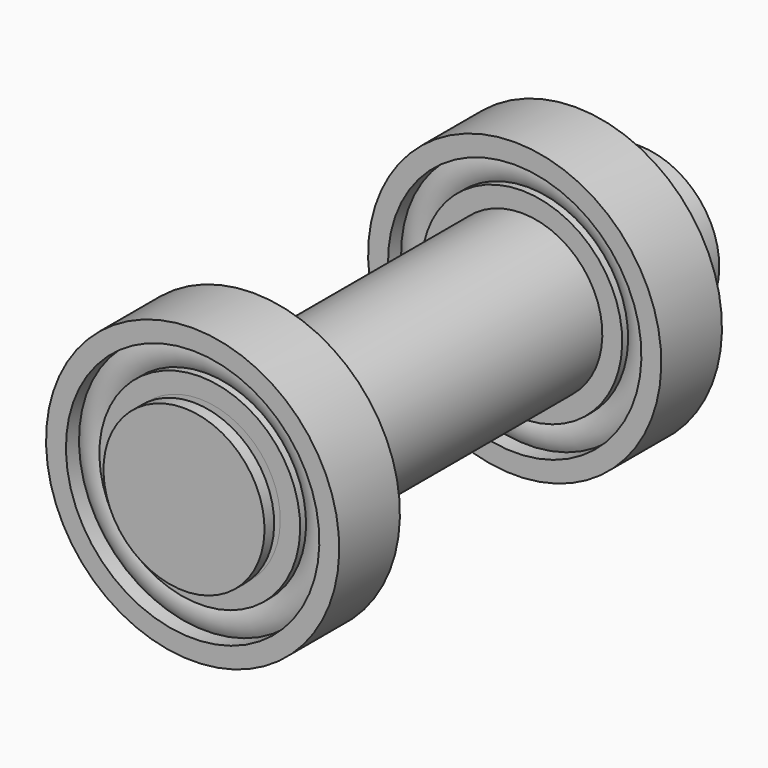
from build123d import *


with BuildPart() as f1:
    # F0 (on Right) → F1 (revolve)
    with BuildSketch(Plane.YZ):
        with BuildLine():
            Line((-63.255086535, 24.9401769811), (-65.0876164436, 24.9401769811))
            Line((-65.0876164436, 24.9401769811), (-65.0876164436, 20))
            Line((-65.0876164436, 20), (-50.6773889065, 20))
            Line((-50.6773889065, 20), (-50.6773889065, 24.9401769811))
            Line((-50.6773889065, 24.9401769811), (-52.5099188151, 24.9401769811))
            ThreePointArc((-52.5099188151, 24.9401769811), (-51.593845137, 28.2085949928), (-52.5099188151, 31.4770130044))
            Line((-52.5099188151, 31.4770130044), (-48.4607610852, 31.4770130044))
            Line((-48.4607610852, 31.4770130044), (-48.4607610852, 36.4171899855))
            Line((-48.4607610852, 36.4171899855), (-67.304244265, 36.4171899855))
            Line((-67.304244265, 36.4171899855), (-67.304244265, 31.4770130044))
            Line((-67.304244265, 31.4770130044), (-63.255086535, 31.4770130044))
            ThreePointArc((-63.255086535, 31.4770130044), (-64.1711602131, 28.2085949928), (-63.255086535, 24.9401769811))
        make_face()
    revolve(axis=Axis((0, -107.8825026751, 0), (0, -1, 0)))


with BuildPart() as f2_1:
    # F2: copy of F1
    add(f1.part.moved(Location((0, -100, 0))))


with BuildPart() as f4:
    # F3 (on Right) → F4 (revolve)
    with BuildSketch(Plane.YZ):
        Polygon((-50.7773889065, 20), (-164.9876164436, 20), (-164.9876164436, 17), (-166.9876164436, 17), (-166.9876164436, 20), (-169.9876164436, 20), (-169.9876164436, 0), (-28.7773889065, 0), (-28.7773889065, 20), (-48.7773889065, 20), (-48.7773889065, 17), (-50.7773889065, 17), align=None)
    revolve(axis=Axis((0, -107.8825026751, 0), (0, -1, 0)))


solid = Compound([f1.part, f2_1.part, f4.part])
